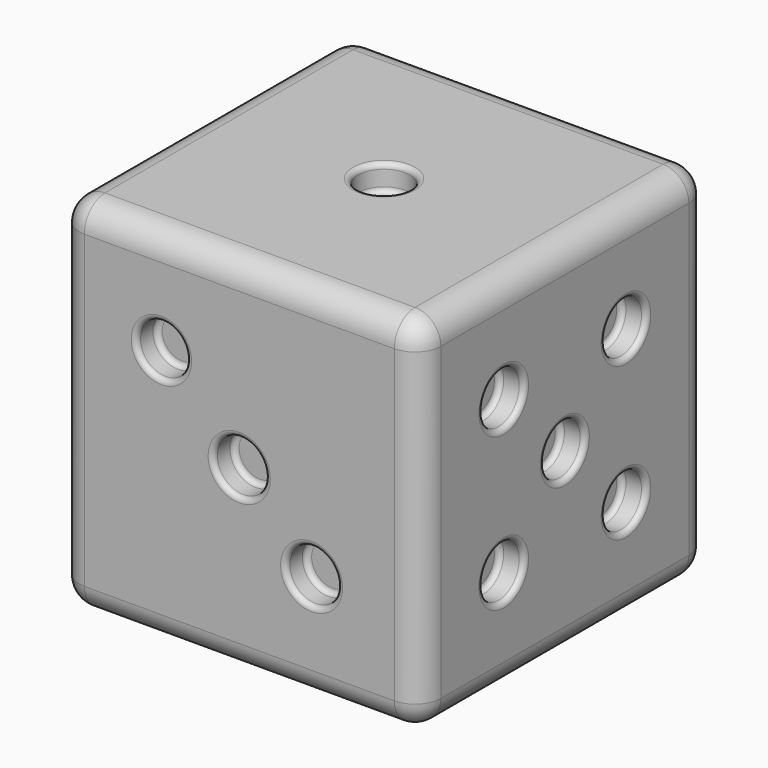
from build123d import *

# Parameters (mm, degrees)
F0_W      = 70
F0_H      = 70
F1_DEPTH  = 70
F2_R      = 5
F3_R      = 5
F4_DEPTH  = 5
F5_R      = 4.846879
F5_R_2    = 5.020679
F5_R_3    = 5
F6_DEPTH  = 5
F7_R      = 5
F8_DEPTH  = 5
F9_R      = 5
F10_DEPTH = 5
F11_R     = 5
F11_R_2   = 4.929394
F12_DEPTH = 5
F14_R     = 1
F15_R     = 1
F16_R     = 1
F13_R     = 5
F17_DEPTH = 5
F18_R     = 1
F19_R     = 1
F20_R     = 1


with BuildPart() as f1:
    # F0 (on Top) → F1 (new body)
    with BuildSketch(Plane.XY):
        Rectangle(F0_W, F0_H)
    extrude(amount=F1_DEPTH)

    # F2
    f2_edges = [f1.edges().sort_by_distance(p)[0] for p in [
        (-35, -35, 35),
        (35, -35, 35),
        (0, -35, 0),
        (0, -35, 70),
        (-35, 0, 70),
        (35, 0, 70),
        (0, 35, 70),
        (35, 35, 35),
        (-35, 35, 35),
        (-35, 0, 0),
        (35, 0, 0),
        (0, 35, 0),
    ]]
    fillet(f2_edges, radius=F2_R)

    # F3 (on face) → F4 (cut)
    with BuildSketch(Plane.XY.offset(70)):
        Circle(F3_R)
    extrude(amount=-F4_DEPTH, mode=Mode.SUBTRACT)

    # F5 (on face) → F6 (cut)
    with BuildSketch(Plane.XZ.offset(35)):
        with Locations((-15.083425, 50.04801)):
            Circle(F5_R)
        with Locations((-0.021387, 34.985972)):
            Circle(F5_R_2)
        with Locations((13.997849, 20.966736)):
            Circle(F5_R_3)
    extrude(amount=-F6_DEPTH, mode=Mode.SUBTRACT)

    # F7 (on face) → F8 (cut)
    with BuildSketch(Plane(origin=(0, 35, 0), x_dir=(-1, 0, 0), z_dir=(0, 1, 0))):
        with Locations((15, 50)):
            Circle(F7_R)
        with Locations((15, 20)):
            Circle(F7_R)
        with Locations((-15, 50)):
            Circle(F7_R)
        with Locations((-15, 20)):
            Circle(F7_R)
    extrude(amount=-F8_DEPTH, mode=Mode.SUBTRACT)

    # F9 (on face) → F10 (cut)
    with BuildSketch(Plane(origin=(0, 0, 0), x_dir=(1, 0, 0), z_dir=(0, 0, -1))):
        with Locations((-15, 15)):
            Circle(F9_R)
        with Locations((15, 0)):
            Circle(F9_R)
        with Locations((-15, 0)):
            Circle(F9_R)
        with Locations((-15, -15)):
            Circle(F9_R)
        with Locations((15, -15)):
            Circle(F9_R)
        with Locations((15, 15)):
            Circle(F9_R)
    extrude(amount=-F10_DEPTH, mode=Mode.SUBTRACT)

    # F11 (on face) → F12 (cut)
    with BuildSketch(Plane.YZ.offset(35)):
        with Locations((-14.781612, 49.794754)):
            Circle(F11_R)
        with Locations((-14.781612, 20.218388)):
            Circle(F11_R)
        with Locations((0.006571, 35.006571)):
            Circle(F11_R_2)
        with Locations((14.794754, 49.794754)):
            Circle(F11_R)
        with Locations((14.794754, 20.218388)):
            Circle(F11_R)
    extrude(amount=-F12_DEPTH, mode=Mode.SUBTRACT)

    # F14
    f14_edges = [f1.edges().sort_by_distance(p)[0] for p in [
        (5, 0, 67.5),
        (-5, 0, 70),
        (-5, 0, 65),
    ]]
    fillet(f14_edges, radius=F14_R)

    # F15
    f15_edges = [f1.edges().sort_by_distance(p)[0] for p in [
        (-10.236546, -32.5, 50.04801),
        (-19.930304, -35, 50.04801),
        (-19.930304, -30, 50.04801),
        (18.997849, -32.5, 20.966736),
        (8.997849, -35, 20.966736),
        (8.997849, -30, 20.966736),
        (4.999292, -32.5, 34.985972),
        (-5.042067, -35, 34.985972),
        (-5.042067, -30, 34.985972),
    ]]
    fillet(f15_edges, radius=F15_R)

    # F16
    f16_edges = [f1.edges().sort_by_distance(p)[0] for p in [
        (32.5, -9.781612, 49.794754),
        (35, -19.781612, 49.794754),
        (30, -19.781612, 49.794754),
        (32.5, 19.794754, 49.794754),
        (35, 9.794754, 49.794754),
        (30, 9.794754, 49.794754),
        (32.5, 19.794754, 20.218388),
        (35, 9.794754, 20.218388),
        (30, 9.794754, 20.218388),
        (32.5, 4.935966, 35.006571),
        (35, -4.922823, 35.006571),
        (30, -4.922823, 35.006571),
        (32.5, -9.781612, 20.218388),
        (35, -19.781612, 20.218388),
        (30, -19.781612, 20.218388),
    ]]
    fillet(f16_edges, radius=F16_R)

    # F13 (on face) → F17 (cut)
    with BuildSketch(Plane(origin=(-35, 0, 0), x_dir=(0, -1, 0), z_dir=(-1, 0, 0))):
        with Locations((-15, 50)):
            Circle(F13_R)
        with Locations((15, 20)):
            Circle(F13_R)
    extrude(amount=-F17_DEPTH, mode=Mode.SUBTRACT)

    # F18
    f18_edges = [f1.edges().sort_by_distance(p)[0] for p in [
        (-32.5, 10, 50),
        (-35, 20, 50),
        (-30, 20, 50),
        (-32.5, -20, 20),
        (-35, -10, 20),
        (-30, -10, 20),
    ]]
    fillet(f18_edges, radius=F18_R)

    # F19
    f19_edges = [f1.edges().sort_by_distance(p)[0] for p in [
        (20, -15, 2.5),
        (10, -15, 0),
        (10, -15, 5),
        (20, 0, 2.5),
        (10, 0, 0),
        (10, 0, 5),
        (20, 15, 2.5),
        (10, 15, 0),
        (10, 15, 5),
        (-10, 15, 2.5),
        (-20, 15, 0),
        (-20, 15, 5),
        (-10, 0, 2.5),
        (-20, 0, 0),
        (-20, 0, 5),
        (-10, -15, 2.5),
        (-20, -15, 0),
        (-20, -15, 5),
    ]]
    fillet(f19_edges, radius=F19_R)

    # F20
    f20_edges = [f1.edges().sort_by_distance(p)[0] for p in [
        (10, 32.5, 50),
        (20, 35, 50),
        (20, 30, 50),
        (-20, 32.5, 50),
        (-10, 35, 50),
        (-10, 30, 50),
        (-20, 32.5, 20),
        (-10, 35, 20),
        (-10, 30, 20),
        (10, 32.5, 20),
        (20, 35, 20),
        (20, 30, 20),
    ]]
    fillet(f20_edges, radius=F20_R)


solid = f1.part
